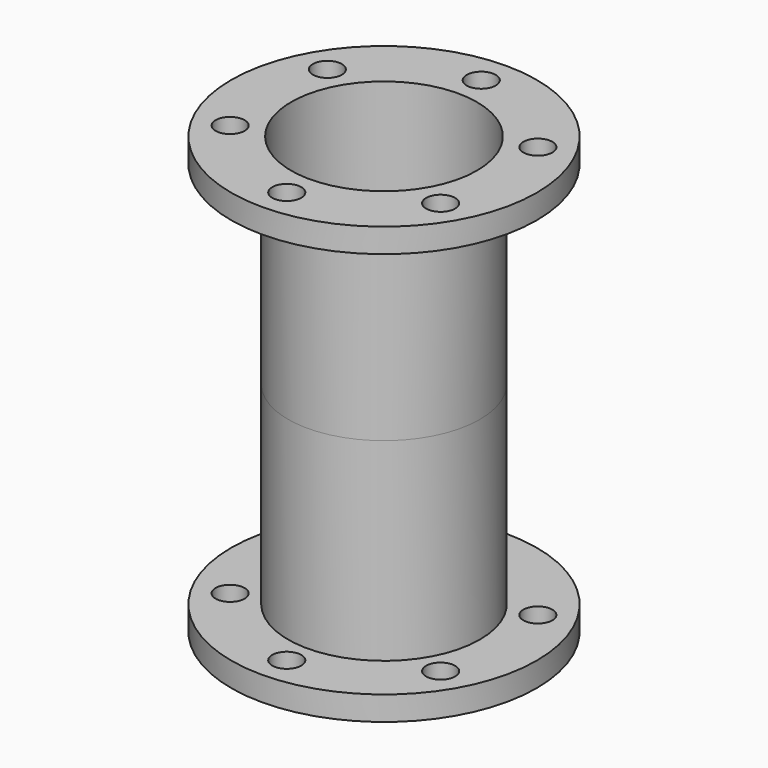
from build123d import *

# Parameters (mm, degrees)
F0_R     = 40.044242968
F0_R_2   = 3.8023358025
F1_DEPTH = 6.35
F2_R     = 25.1375995998
F3_DEPTH = 50.8
F5_R     = 24.3470793068
F6_DEPTH = 114.301


with BuildPart() as f1:
    # F0 (on Top) → F1 (new body)
    with BuildSketch(Plane.XY):
        Circle(F0_R)
        with Locations((-27.5898085333, -15.9289833836)):
            Circle(F0_R_2, mode=Mode.SUBTRACT)
        with Locations((0, -31.8579667672)):
            Circle(F0_R_2, mode=Mode.SUBTRACT)
        with Locations((27.5898085333, -15.9289833836)):
            Circle(F0_R_2, mode=Mode.SUBTRACT)
        with Locations((-27.5898085333, 15.9289833836)):
            Circle(F0_R_2, mode=Mode.SUBTRACT)
        with Locations((27.5898085333, 15.9289833836)):
            Circle(F0_R_2, mode=Mode.SUBTRACT)
        with Locations((0, 31.8579667672)):
            Circle(F0_R_2, mode=Mode.SUBTRACT)
    extrude(amount=F1_DEPTH)

    # F2 (on face) → F3 (join)
    with BuildSketch(Plane.XY.offset(6.35)):
        Circle(F2_R)
    extrude(amount=F3_DEPTH)

    # F4: F1 across face


with BuildPart() as f1_1:
    add(f1.part)
    add(f1.part.mirror(Plane.XY.offset(57.15)))

    # F5 (on face) → F6 (cut, through all)
    with BuildSketch(Plane(origin=(0, 0, 0), x_dir=(1, 0, 0), z_dir=(0, 0, -1))):
        Circle(F5_R)
    extrude(amount=-F6_DEPTH, mode=Mode.SUBTRACT)


solid = f1_1.part
